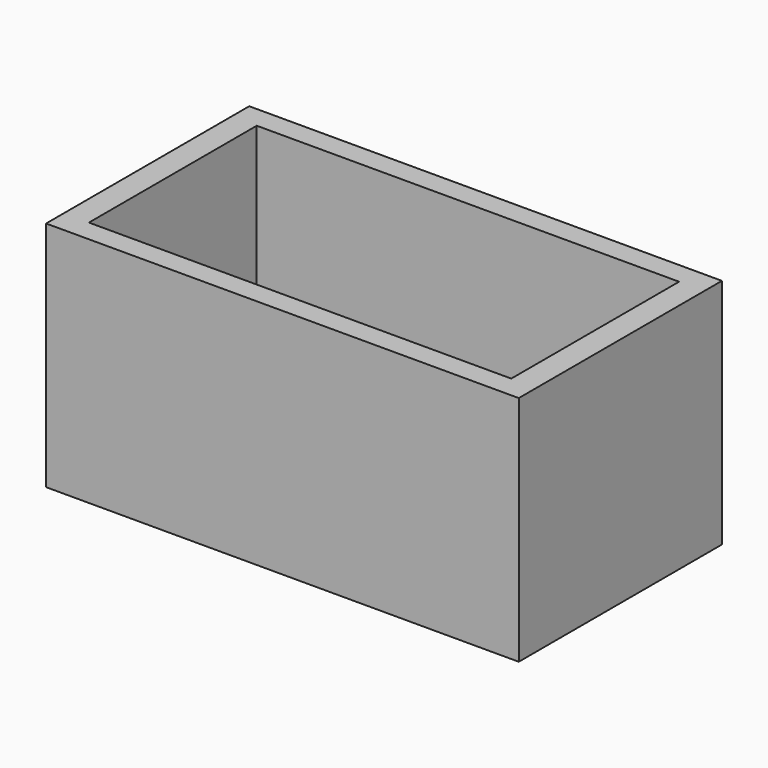
from build123d import *

# Parameters (mm, degrees)
F0_W          = 47.278642
F0_H          = 23.219686
F1_DEPTH      = 12.7
F1_DEPTH_BACK = 12.7
F2_W          = 42.243038
F2_H          = 20.981644
F3_DEPTH      = 21.082


with BuildPart() as f1:
    # F0 (on Front) → F1 (new body, two sides)
    with BuildSketch(Plane.XZ) as f1_sk:
        Rectangle(F0_W, F0_H)
    extrude(amount=F1_DEPTH)
    extrude(f1_sk.sketch, amount=-F1_DEPTH_BACK)

    # F2 (on face) → F3 (cut)
    with BuildSketch(Plane.XY.offset(11.609843)):
        Rectangle(F2_W, F2_H)
    extrude(amount=-F3_DEPTH, mode=Mode.SUBTRACT)


solid = f1.part
